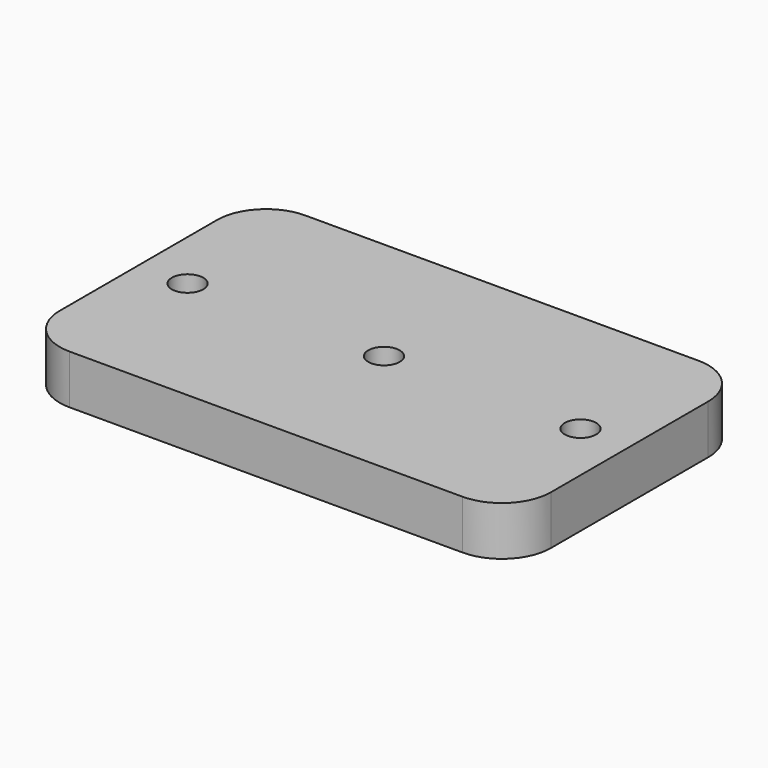
from build123d import *

# Parameters (mm, degrees)
F0_R     = 1.6
F1_DEPTH = 5


with BuildPart() as f1:
    # F0 (on Top) → F1 (new body)
    with BuildSketch(Plane.XY):
        with BuildLine():
            ThreePointArc((25, 10), (23.535534, 13.535534), (20, 15))
            Line((20, 15), (-20, 15))
            ThreePointArc((-20, 15), (-23.535534, 13.535534), (-25, 10))
            Line((-25, 10), (-25, -10))
            ThreePointArc((-25, -10), (-23.535534, -13.535534), (-20, -15))
            Line((-20, -15), (20, -15))
            ThreePointArc((20, -15), (23.535534, -13.535534), (25, -10))
            Line((25, -10), (25, 10))
        make_face()
        with Locations((-20, 0)):
            Circle(F0_R, mode=Mode.SUBTRACT)
        Circle(F0_R, mode=Mode.SUBTRACT)
        with Locations((20, 0)):
            Circle(F0_R, mode=Mode.SUBTRACT)
    extrude(amount=F1_DEPTH)


solid = f1.part
